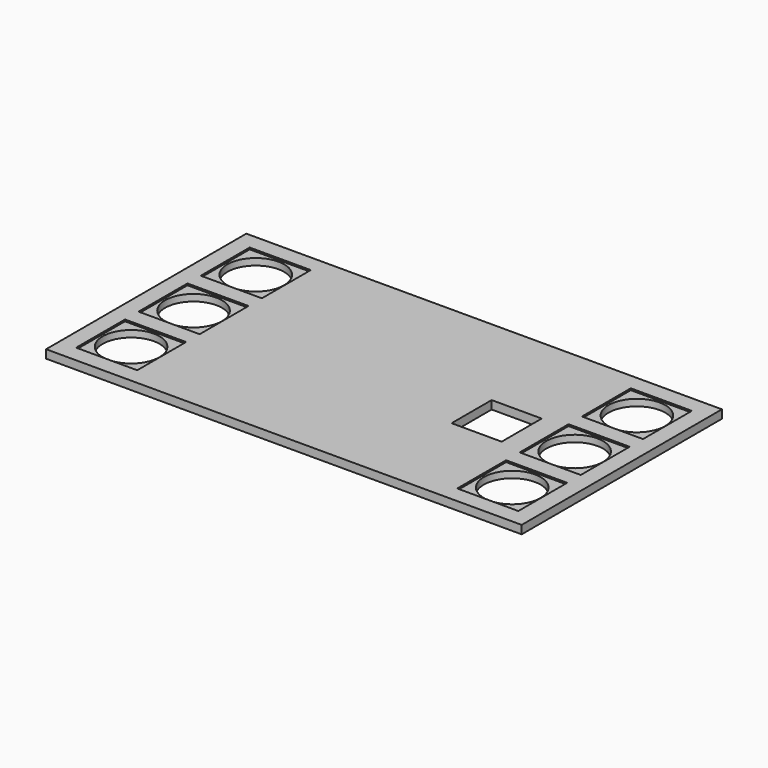
from build123d import *

# Parameters (mm, degrees)
F0_W     = 723.9
F0_H     = 381
F0_W_2   = 93.000068
F0_H_2   = 93.000068
F0_W_3   = 76.2
F0_H_3   = 76.2
F1_DEPTH = 12.7
F0_R     = 43.18
F2_DEPTH = 10.16
F3_DEPTH = 25.4
F4_DEPTH = 10.16


with BuildPart() as f1:
    # F0 (on Top) → F1 (new body)
    with BuildSketch(Plane.XY):
        with Locations((-11.680007, 37.135195)):
            Rectangle(F0_W, F0_H)
        with Locations((-301.729973, -81.464771)):
            Rectangle(F0_W_2, F0_H_2, mode=Mode.SUBTRACT)
        with Locations((278.369959, -81.464771)):
            Rectangle(F0_W_2, F0_H_2, mode=Mode.SUBTRACT)
        with Locations((159.769993, 37.135195)):
            Rectangle(F0_W_3, F0_H_3, mode=Mode.SUBTRACT)
        with Locations((-301.729973, 37.335093)):
            Rectangle(F0_W_2, F0_H_2, mode=Mode.SUBTRACT)
        with Locations((-301.729973, 155.735161)):
            Rectangle(F0_W_2, F0_H_2, mode=Mode.SUBTRACT)
        with Locations((278.369959, 37.335093)):
            Rectangle(F0_W_2, F0_H_2, mode=Mode.SUBTRACT)
        with Locations((278.369959, 155.735161)):
            Rectangle(F0_W_2, F0_H_2, mode=Mode.SUBTRACT)
    extrude(amount=F1_DEPTH)

    # F0 (on Top) → F2 (join)
    with BuildSketch(Plane.XY):
        with Locations((278.369959, 155.735161)):
            Rectangle(F0_W_2, F0_H_2)
        with Locations((278.369959, 155.735161)):
            Circle(F0_R, mode=Mode.SUBTRACT)
        with Locations((278.369959, 37.335093)):
            Rectangle(F0_W_2, F0_H_2)
        with Locations((278.369959, 37.335093)):
            Circle(F0_R, mode=Mode.SUBTRACT)
        with Locations((278.369959, -81.464771)):
            Rectangle(F0_W_2, F0_H_2)
        with Locations((278.369959, -81.464771)):
            Circle(F0_R, mode=Mode.SUBTRACT)
    extrude(amount=F2_DEPTH)

    # F0 (on Top) → F3 (cut)
    with BuildSketch(Plane.XY):
        with Locations((278.369959, 155.735161)):
            Circle(F0_R)
        with Locations((278.369959, 37.335093)):
            Circle(F0_R)
        with Locations((278.369959, -81.464771)):
            Circle(F0_R)
    extrude(amount=F3_DEPTH, mode=Mode.SUBTRACT)

    # F0 (on Top) → F4 (join)
    with BuildSketch(Plane.XY):
        with Locations((-301.729973, 155.735161)):
            Rectangle(F0_W_2, F0_H_2)
        with Locations((-301.729973, 155.735161)):
            Circle(F0_R, mode=Mode.SUBTRACT)
        with Locations((-301.729973, 37.335093)):
            Rectangle(F0_W_2, F0_H_2)
        with Locations((-301.729973, 37.335093)):
            Circle(F0_R, mode=Mode.SUBTRACT)
        with Locations((-301.729973, -81.464771)):
            Rectangle(F0_W_2, F0_H_2)
        with Locations((-301.729973, -81.464771)):
            Circle(F0_R, mode=Mode.SUBTRACT)
    extrude(amount=F4_DEPTH)


solid = f1.part
